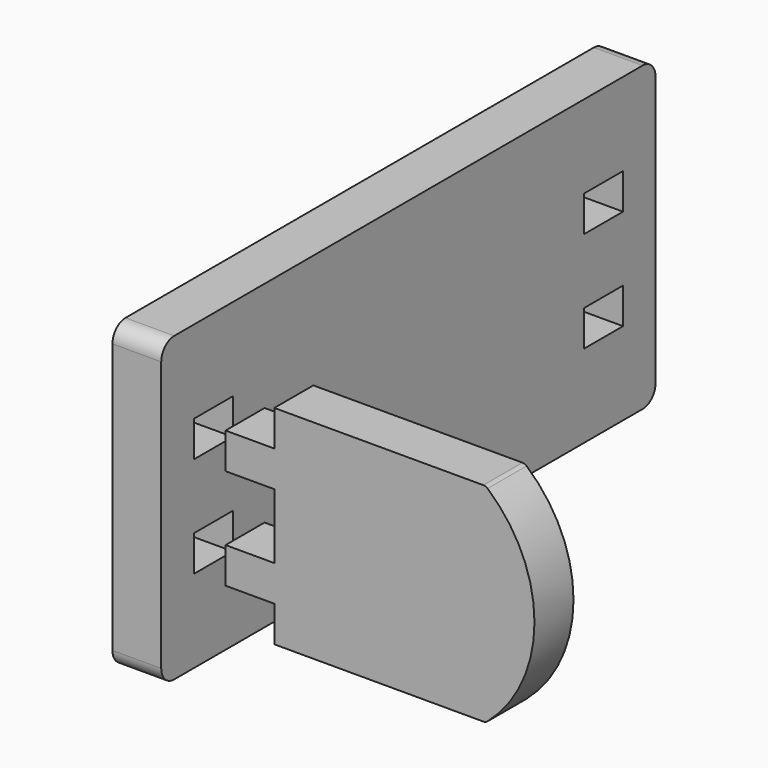
from build123d import *

# Parameters (mm, degrees)
F0_W     = 15
F0_H     = 11
F0_R     = 9.25
F1_DEPTH = 15
F3_R     = 7.5
F4_DEPTH = 15
F5_DEPTH = 5
F6_DEPTH = 10


with BuildPart() as f1:
    # F0 (on Right) → F1 (new body)
    with BuildSketch(Plane.YZ):
        with BuildLine():
            Line((-90, -46.5), (90, -46.5))
            ThreePointArc((90, -46.5), (93.535534, -45.035534), (95, -41.5))
            Line((95, -41.5), (95, 41.5))
            ThreePointArc((95, 41.5), (93.535534, 45.035534), (90, 46.5))
            Line((90, 46.5), (-90, 46.5))
            ThreePointArc((-90, 46.5), (-93.535534, 45.035534), (-95, 41.5))
            Line((-95, 41.5), (-95, -41.5))
            ThreePointArc((-95, -41.5), (-93.535534, -45.035534), (-90, -46.5))
        make_face()
        with Locations((-75, -15.5)):
            Rectangle(F0_W, F0_H, mode=Mode.SUBTRACT)
        with Locations((75, -15.5)):
            Rectangle(F0_W, F0_H, mode=Mode.SUBTRACT)
        with Locations((-67.5, 0)):
            Circle(F0_R, mode=Mode.SUBTRACT)
        with Locations((-75, 15.5)):
            Rectangle(F0_W, F0_H, mode=Mode.SUBTRACT)
        with Locations((67.5, 0)):
            Circle(F0_R, mode=Mode.SUBTRACT)
        with Locations((75, 15.5)):
            Rectangle(F0_W, F0_H, mode=Mode.SUBTRACT)
        with BuildLine():
            Line((-90, -46.5), (90, -46.5))
            ThreePointArc((90, -46.5), (93.535534, -45.035534), (95, -41.5))
            Line((95, -41.5), (95, 41.5))
            ThreePointArc((95, 41.5), (93.535534, 45.035534), (90, 46.5))
            Line((90, 46.5), (-90, 46.5))
            ThreePointArc((-90, 46.5), (-93.535534, 45.035534), (-95, 41.5))
            Line((-95, 41.5), (-95, -41.5))
            ThreePointArc((-95, -41.5), (-93.535534, -45.035534), (-90, -46.5))
        make_face()
        with Locations((-75, -15.5)):
            Rectangle(F0_W, F0_H, mode=Mode.SUBTRACT)
        with Locations((75, -15.5)):
            Rectangle(F0_W, F0_H, mode=Mode.SUBTRACT)
        with Locations((-67.5, 0)):
            Circle(F0_R, mode=Mode.SUBTRACT)
        with Locations((-75, 15.5)):
            Rectangle(F0_W, F0_H, mode=Mode.SUBTRACT)
        with Locations((67.5, 0)):
            Circle(F0_R, mode=Mode.SUBTRACT)
        with Locations((75, 15.5)):
            Rectangle(F0_W, F0_H, mode=Mode.SUBTRACT)
        with BuildLine():
            Line((-90, -46.5), (90, -46.5))
            ThreePointArc((90, -46.5), (93.535534, -45.035534), (95, -41.5))
            Line((95, -41.5), (95, 41.5))
            ThreePointArc((95, 41.5), (93.535534, 45.035534), (90, 46.5))
            Line((90, 46.5), (-90, 46.5))
            ThreePointArc((-90, 46.5), (-93.535534, 45.035534), (-95, 41.5))
            Line((-95, 41.5), (-95, -41.5))
            ThreePointArc((-95, -41.5), (-93.535534, -45.035534), (-90, -46.5))
        make_face()
        with Locations((-75, -15.5)):
            Rectangle(F0_W, F0_H, mode=Mode.SUBTRACT)
        with Locations((75, -15.5)):
            Rectangle(F0_W, F0_H, mode=Mode.SUBTRACT)
        with Locations((-67.5, 0)):
            Circle(F0_R, mode=Mode.SUBTRACT)
        with Locations((-75, 15.5)):
            Rectangle(F0_W, F0_H, mode=Mode.SUBTRACT)
        with Locations((67.5, 0)):
            Circle(F0_R, mode=Mode.SUBTRACT)
        with Locations((75, 15.5)):
            Rectangle(F0_W, F0_H, mode=Mode.SUBTRACT)
        with Locations((-67.5, 0)):
            Circle(F0_R)
        with Locations((67.5, 0)):
            Circle(F0_R)
    extrude(amount=F1_DEPTH)

    # F0 (on Right) → F6 (cut)
    with BuildSketch(Plane.YZ):
        with Locations((67.5, 0)):
            Circle(F0_R)
        with Locations((-67.5, 0)):
            Circle(F0_R)
    extrude(amount=F6_DEPTH, mode=Mode.SUBTRACT)


with BuildPart() as f4:
    # F3 (on offset) → F4 (new body)
    with BuildSketch(Plane.XZ.offset(67.5)):
        with BuildLine():
            ThreePointArc((105.347357, 31.513877), (104.73761, 31.874534), (104.040385, 32))
            Line((104.040385, 32), (39.77389, 32))
            Line((39.77389, 32), (39.77389, 21))
            Line((39.77389, 21), (24.77389, 21))
            Line((24.77389, 21), (24.77389, 10))
            Line((24.77389, 10), (39.77389, 10))
            Line((39.77389, 10), (39.77389, -10))
            Line((39.77389, -10), (24.77389, -10))
            Line((24.77389, -10), (24.77389, -21))
            Line((24.77389, -21), (39.77389, -21))
            Line((39.77389, -21), (39.77389, -32))
            Line((39.77389, -32), (104.040385, -32))
            ThreePointArc((104.040385, -32), (104.73761, -31.874534), (105.347357, -31.513877))
            ThreePointArc((105.347357, -31.513877), (119.77389, 0), (105.347357, 31.513877))
        make_face()
        with Locations((101.77389, 0)):
            Circle(F3_R, mode=Mode.SUBTRACT)
        with Locations((101.77389, 0)):
            Circle(F3_R)
    extrude(amount=F4_DEPTH)

    # F3 (on offset) → F5 (cut)
    with BuildSketch(Plane.XZ.offset(67.5)):
        with Locations((101.77389, 0)):
            Circle(F3_R)
    extrude(amount=F5_DEPTH, mode=Mode.SUBTRACT)


solid = Compound([f1.part, f4.part])
